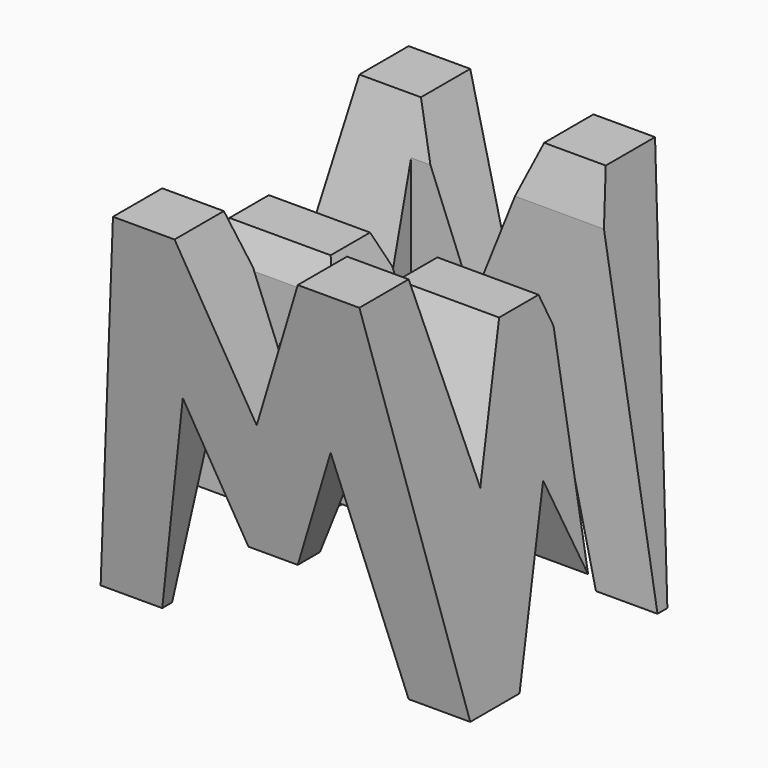
from build123d import *

# Parameters (mm, degrees)
F0_W      = 38.1
F0_H      = 38.099996
F1_DEPTH  = 38.1
F6_DEPTH  = 38.1
F8_DEPTH  = 38.1
F9_W      = 25.4
F9_H      = 7.62
F10_DEPTH = 38.1


with BuildPart() as f1:
    # F0 (on Front) → F1 (new body)
    with BuildSketch(Plane.XZ):
        with Locations((19.05, 19.049998)):
            Rectangle(F0_W, F0_H)
    extrude(amount=F1_DEPTH)

    # F5 (on offset) → F6 (cut)
    with BuildSketch(Plane.YZ.offset(38.1)):
        Polygon((-31.75, 0), (-38.1, 38.1), (-38.1, 0), align=None)
        Polygon((-11.43, 18.195421), (-6.35, 38.1), (-31.75, 38.1), (-26.67, 18.195421), (-21.59, 30.895421), (-16.51, 30.895421), align=None)
        Polygon((-25.4, 0), (-12.7, 0), (-19.05, 15.875), align=None)
        Polygon((-6.35, 0), (0, 0), (0, 38.1), align=None)
    extrude(amount=-F6_DEPTH, mode=Mode.SUBTRACT)

    # F7 (on offset) → F8 (cut)
    with BuildSketch(Plane.XZ.offset(38.1)):
        Polygon((0, 38.1), (0, 0), (6.35, 38.1), align=None)
        Polygon((25.4, 38.1), (12.7, 38.1), (19.05, 22.225), align=None)
        Polygon((31.75, 38.1), (38.1, 0), (38.1, 38.1), align=None)
        Polygon((11.43, 22.225), (6.35, 0), (31.75, 0), (26.67, 22.225), (21.59, 9.525), (16.51, 9.525), align=None)
    extrude(amount=-F8_DEPTH, mode=Mode.SUBTRACT)

    # F9 (on offset) → F10 (cut)
    with BuildSketch(Plane.XY.offset(38.1)):
        with Locations((12.7, -26.67)):
            Rectangle(F9_W, F9_H)
        with Locations((25.4, -11.43)):
            Rectangle(F9_W, F9_H)
    extrude(amount=-F10_DEPTH, mode=Mode.SUBTRACT)


solid = f1.part
